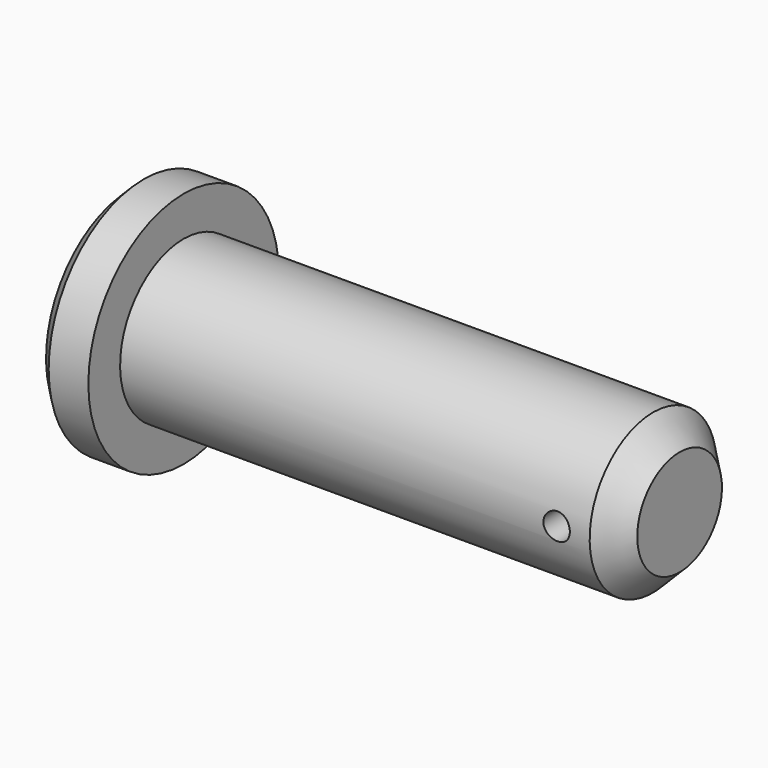
from build123d import *

# Parameters (mm, degrees)
F2_SIZE  = 4
F3_SIZE  = 2
F4_R     = 2
F5_DEPTH = 12.5


with BuildPart() as f1:
    # F0 (on Front) → F1 (revolve)
    with BuildSketch(Plane.XZ):
        Polygon((75, 12), (0, 12), (0, 18), (-8, 18), (-8, 0), (75, 0), align=None)
    revolve(axis=Axis((33.5, 0, 0), (1, 0, 0)))

    # F2
    f2_edges = [f1.edges().sort_by_distance(p)[0] for p in [
        (75, 0, -12),
    ]]
    chamfer(f2_edges, length=F2_SIZE)

    # F3
    f3_edges = [f1.edges().sort_by_distance(p)[0] for p in [
        (-8, 0, -18),
    ]]
    chamfer(f3_edges, length=F3_SIZE)

    # F4 (on Front) → F5 (cut, symmetric)
    with BuildSketch(Plane.XZ):
        with Locations((66, 0)):
            Circle(F4_R)
    extrude(amount=F5_DEPTH, both=True, mode=Mode.SUBTRACT)


solid = f1.part
